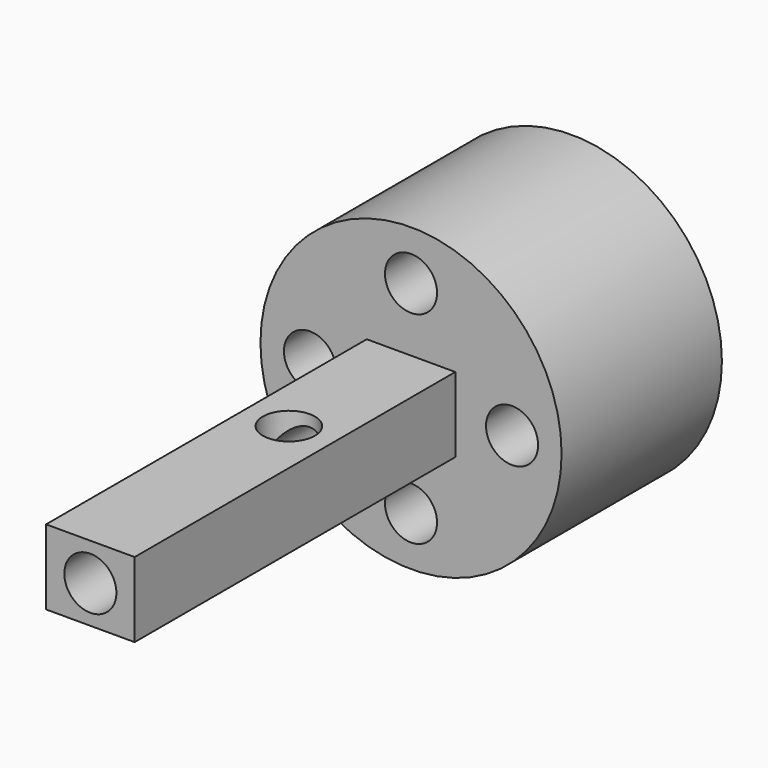
from build123d import *

# Parameters (mm, degrees)
F0_R           = 19.0832795918
F1_DEPTH       = 25.4
F2_D           = 6.6
F3_W           = 11.2244253978
F3_H           = 9.497590363
F4_DEPTH       = 50.8
F6_D           = 6.6
F7_D           = 6.6
F7_CBORE_D     = 11.25
F7_CBORE_DEPTH = 6


with BuildPart() as f1:
    # F0 (on Front) → F1 (new body)
    with BuildSketch(Plane.XZ):
        Circle(F0_R)
    extrude(amount=F1_DEPTH)

    # F2 (through all)
    with Locations(Plane(origin=(0, 0, 0), x_dir=(1, 0, 0), z_dir=(0, 1, 0))):
        with Locations((0, -12.8073552623), (12.8073552623, 0), (0, 12.8073552623), (-12.8073552623, 0)):
            Hole(F2_D / 2)

    # F3 (on face) → F4 (join)
    with BuildSketch(Plane.XZ.offset(25.4)):
        Rectangle(F3_W, F3_H)
    extrude(amount=F4_DEPTH)

    # F6 (through all)
    with Locations(Plane(origin=(0, 0, -4.7487951815), x_dir=(1, 0, 0), z_dir=(0, 0, -1))):
        with Locations((0, 44.753793627)):
            Hole(F6_D / 2)

    # F7 (through all)
    with Locations(Plane(origin=(0, 0, 0), x_dir=(1, 0, 0), z_dir=(0, 1, 0))):
        with Locations((0, 0)):
            CounterBoreHole(F7_D / 2, F7_CBORE_D / 2, F7_CBORE_DEPTH)


solid = f1.part
